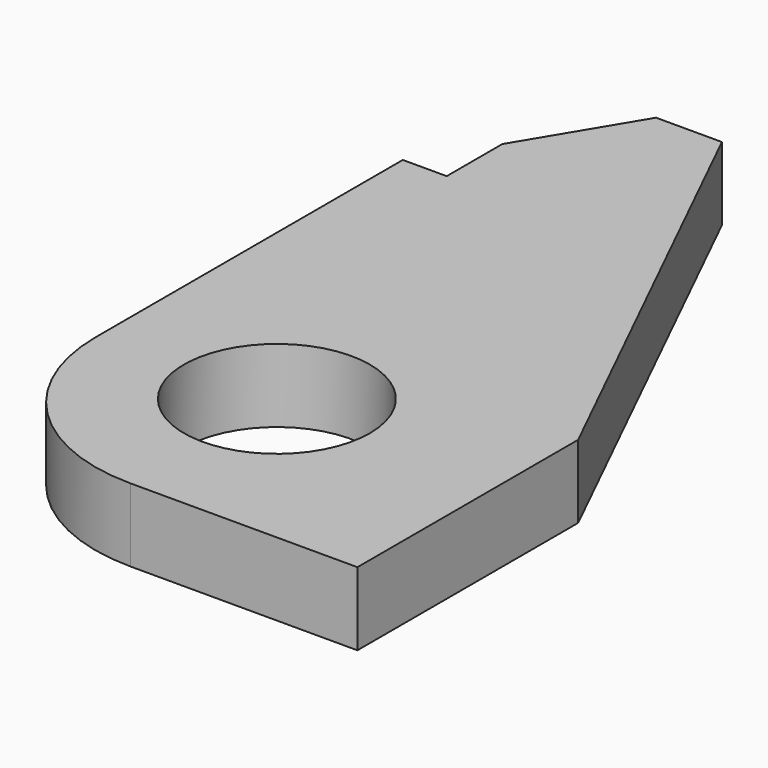
from build123d import *

# Parameters (mm, degrees)
F0_R     = 6.35
F1_DEPTH = 5


with BuildPart() as f1:
    # F0 (on Top) → F1 (new body)
    with BuildSketch(Plane.XY):
        with BuildLine():
            ThreePointArc((0, 12), (3.514719, 3.514719), (12, 0))
            Line((12, 0), (27.5, 0))
            Line((27.5, 0), (27.5, 18.85))
            Line((27.5, 18.85), (12, 50.5))
            Line((12, 50.5), (7.5, 50.5))
            Line((7.5, 50.5), (3, 43))
            Line((3, 43), (3, 38.25))
            Line((3, 38.25), (0, 38.25))
            Line((0, 38.25), (0, 12))
        make_face()
        with Locations((12, 12.5)):
            Circle(F0_R, mode=Mode.SUBTRACT)
    extrude(amount=F1_DEPTH)


solid = f1.part
